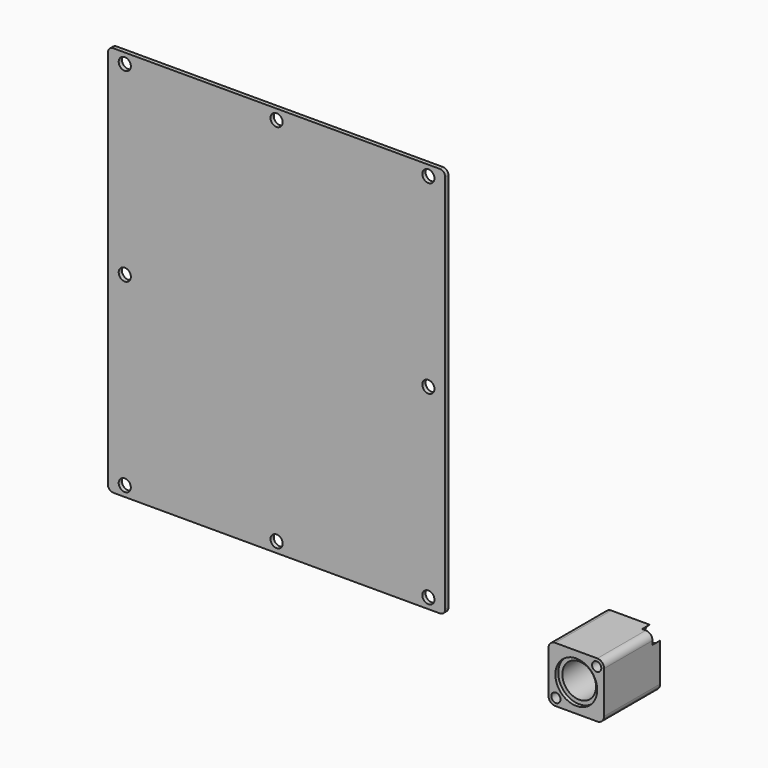
from build123d import *

# Parameters (mm, degrees)
F0_R      = 3.43
F1_DEPTH  = 51.9
F2_R      = 3.43
F3_DEPTH  = 7
F4_R      = 12.5
F5_DEPTH  = 46
F6_R      = 5
F7_R      = 15.5
F7_R_2    = 12.5
F8_DEPTH  = 2.7
F9_R      = 4.5
F10_DEPTH = 3


with BuildPart() as f1:
    # F0 (on Front) → F1 (new body)
    with BuildSketch(Plane.XZ):
        with BuildLine():
            Line((0, 5.5), (0, 0))
            Line((0, 0), (5.5, 0))
            ThreePointArc((5.5, 0), (1.6109127035, 1.6109127035), (0, 5.5))
        make_face()
        with BuildLine():
            ThreePointArc((35.7, 41.2), (39.5890872965, 39.5890872965), (41.2, 35.7))
            Line((41.2, 35.7), (41.2, 41.2))
            Line((41.2, 41.2), (35.7, 41.2))
        make_face()
        with BuildLine():
            ThreePointArc((0, 5.5), (1.6109127035, 1.6109127035), (5.5, 0))
            ThreePointArc((5.5, 0), (9.3890872965, 1.6109127035), (11, 5.5))
            ThreePointArc((11, 5.5), (5.5, 11), (0, 5.5))
        make_face()
        with Locations((5.5, 5.5)):
            Circle(F0_R, mode=Mode.SUBTRACT)
        with BuildLine():
            ThreePointArc((35.7, 41.2), (31.8109127035, 31.8109127035), (41.2, 35.7))
            ThreePointArc((41.2, 35.7), (39.5890872965, 39.5890872965), (35.7, 41.2))
        make_face()
        with Locations((35.7, 35.7)):
            Circle(F0_R, mode=Mode.SUBTRACT)
        with BuildLine():
            ThreePointArc((11, 5.5), (9.3890872965, 1.6109127035), (5.5, 0))
            Line((5.5, 0), (41.2, 0))
            Line((41.2, 0), (41.2, 35.7))
            ThreePointArc((41.2, 35.7), (31.8109127035, 31.8109127035), (35.7, 41.2))
            Line((35.7, 41.2), (0, 41.2))
            Line((0, 41.2), (0, 5.5))
            ThreePointArc((0, 5.5), (5.5, 11), (11, 5.5))
        make_face()
    extrude(amount=F1_DEPTH)

    # F2 (on face) → F3 (cut)
    with BuildSketch(Plane(origin=(0, 0, 0), x_dir=(-1, 0, 0), z_dir=(0, 1, 0))):
        with BuildLine():
            Line((7.8442875928, 0), (0, 7.7894779942))
            Line((0, 7.7894779942), (0, 5.5))
            ThreePointArc((0, 5.5), (-3.3861839358, 0.4224236444), (-9.3751933261, 1.5970681936))
            Line((-9.3751933261, 1.5970681936), (0, -7.7114948072))
            Line((0, -7.7114948072), (7.8442875928, 0))
        make_face()
        with BuildLine():
            Line((-49.0428739703, 41.0014221254), (-39.5339500675, 31.7565463259))
            ThreePointArc((-39.5339500675, 31.7565463259), (-40.7960276298, 37.7689375042), (-35.7, 41.2))
            Line((-35.7, 41.2), (-33.4677347493, 41.2))
            Line((-33.4677347493, 41.2), (-41.2, 48.7143546343))
            Line((-41.2, 48.7143546343), (-49.0428739703, 41.0014221254))
        make_face()
        with BuildLine():
            ThreePointArc((0, 5.5), (-0.4223598428, 7.6136628005), (-1.6245710669, 9.4026978598))
            ThreePointArc((-1.6245710669, 9.4026978598), (-9.4028148349, 9.3753111313), (-9.3751933261, 1.5970681936))
            ThreePointArc((-9.3751933261, 1.5970681936), (-3.3861839358, 0.4224236444), (0, 5.5))
        make_face()
        with Locations((-5.5, 5.5)):
            Circle(F2_R, mode=Mode.SUBTRACT)
        with BuildLine():
            ThreePointArc((-39.5339500675, 31.7565463259), (-33.5595240449, 30.6336045668), (-30.2, 35.7))
            ThreePointArc((-30.2, 35.7), (-30.633832164, 37.8410145859), (-31.8668885298, 39.6442688115))
            ThreePointArc((-31.8668885298, 39.6442688115), (-33.6316043008, 40.7962475638), (-35.7, 41.2))
            ThreePointArc((-35.7, 41.2), (-40.7960276298, 37.7689375042), (-39.5339500675, 31.7565463259))
        make_face()
        with Locations((-35.7, 35.7)):
            Circle(F2_R, mode=Mode.SUBTRACT)
        with Locations((-5.5, 5.5)):
            Circle(F2_R)
        with Locations((-35.7, 35.7)):
            Circle(F2_R)
        with BuildLine():
            Line((0, 5.5), (0, 7.7894779942))
            Line((0, 7.7894779942), (-1.6245710669, 9.4026978598))
            ThreePointArc((-1.6245710669, 9.4026978598), (-0.4223598428, 7.6136628005), (0, 5.5))
        make_face()
        with BuildLine():
            ThreePointArc((-35.7, 41.2), (-33.6316043008, 40.7962475638), (-31.8668885298, 39.6442688115))
            Line((-31.8668885298, 39.6442688115), (-33.4677347493, 41.2))
            Line((-33.4677347493, 41.2), (-35.7, 41.2))
        make_face()
    extrude(amount=-F3_DEPTH, mode=Mode.SUBTRACT)

    # F4 (on face) → F5 (cut)
    with BuildSketch(Plane.XZ.offset(51.9)):
        with Locations((20.6, 20.6)):
            Circle(F4_R)
    extrude(amount=-F5_DEPTH, mode=Mode.SUBTRACT)

    # F6
    f6_edges = [f1.edges().sort_by_distance(p)[0] for p in [
        (41.2, -25.95, 0),
        (0, -25.95, 41.2),
        (41.2, -29.45, 41.2),
        (0, -29.45, 0),
    ]]
    fillet(f6_edges, radius=F6_R)

    # F7 (on face) → F8 (cut)
    with BuildSketch(Plane.XZ.offset(51.9)):
        with Locations((20.6, 20.6)):
            Circle(F7_R)
        with Locations((20.6, 20.6)):
            Circle(F7_R_2, mode=Mode.SUBTRACT)
    extrude(amount=-F8_DEPTH, mode=Mode.SUBTRACT)


with BuildPart() as f10:
    # F9 (on Front) → F10 (new body)
    with BuildSketch(Plane.XZ):
        with BuildLine():
            ThreePointArc((-365.6235651445, 4), (-364.4519922692, 1.1715728753), (-361.6235651445, 0))
            Line((-361.6235651445, 0), (-119.6235651445, 0))
            ThreePointArc((-119.6235651445, 0), (-116.7951380197, 1.1715728753), (-115.6235651445, 4))
            Line((-115.6235651445, 4), (-115.6235651445, 286))
            ThreePointArc((-115.6235651445, 286), (-116.7951380197, 288.8284271247), (-119.6235651445, 290))
            Line((-119.6235651445, 290), (-361.6235651445, 290))
            ThreePointArc((-361.6235651445, 290), (-364.4519922692, 288.8284271247), (-365.6235651445, 286))
            Line((-365.6235651445, 286), (-365.6235651445, 4))
        make_face()
        with Locations((-353.1235651445, 7.7)):
            Circle(F9_R, mode=Mode.SUBTRACT)
        with Locations((-240.6235651445, 7.7)):
            Circle(F9_R, mode=Mode.SUBTRACT)
        with Locations((-128.1235651445, 7.7)):
            Circle(F9_R, mode=Mode.SUBTRACT)
        with Locations((-353.1235651445, 145.1)):
            Circle(F9_R, mode=Mode.SUBTRACT)
        with Locations((-353.1235651445, 282.5)):
            Circle(F9_R, mode=Mode.SUBTRACT)
        with Locations((-128.1235651445, 145.1)):
            Circle(F9_R, mode=Mode.SUBTRACT)
        with Locations((-240.6235651445, 282.5)):
            Circle(F9_R, mode=Mode.SUBTRACT)
        with Locations((-128.1235651445, 282.5)):
            Circle(F9_R, mode=Mode.SUBTRACT)
    extrude(amount=F10_DEPTH)


solid = Compound([f1.part, f10.part])
